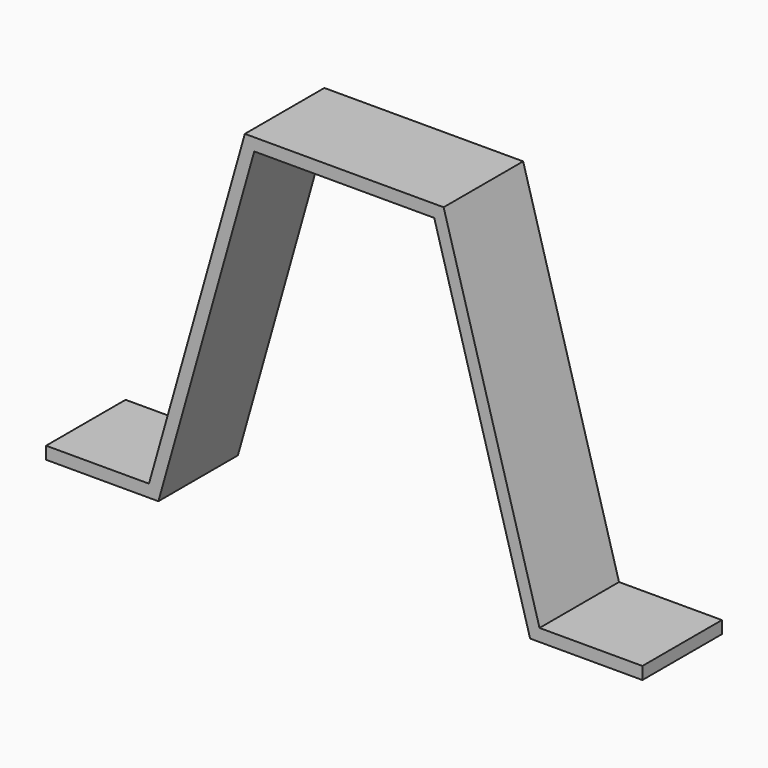
from build123d import *

# Parameters (mm, degrees)
F1_DEPTH = 25.4
F2_W     = 28.575
F2_H     = 25.4
F3_DEPTH = 3.175


with BuildPart() as f1:
    # F0 (on Front) → F1 (new body)
    with BuildSketch(Plane.XZ):
        Polygon((-22.998106, 86.6775), (0, 86.6775), (0, 89.8525), (-25.4, 89.8525), (-50.8, 0), (-47.500579, 0), align=None)
        Polygon((22.998106, 86.6775), (47.500579, 0), (50.8, 0), (25.4, 89.8525), (0, 89.8525), (0, 86.6775), align=None)
    extrude(amount=F1_DEPTH)

    # F2 (on Top) → F3 (join)
    with BuildSketch(Plane.XY):
        with Locations((-61.9125, -12.7)):
            Rectangle(F2_W, F2_H)
        with Locations((61.9125, -12.7)):
            Rectangle(F2_W, F2_H)
    extrude(amount=F3_DEPTH)


solid = f1.part
